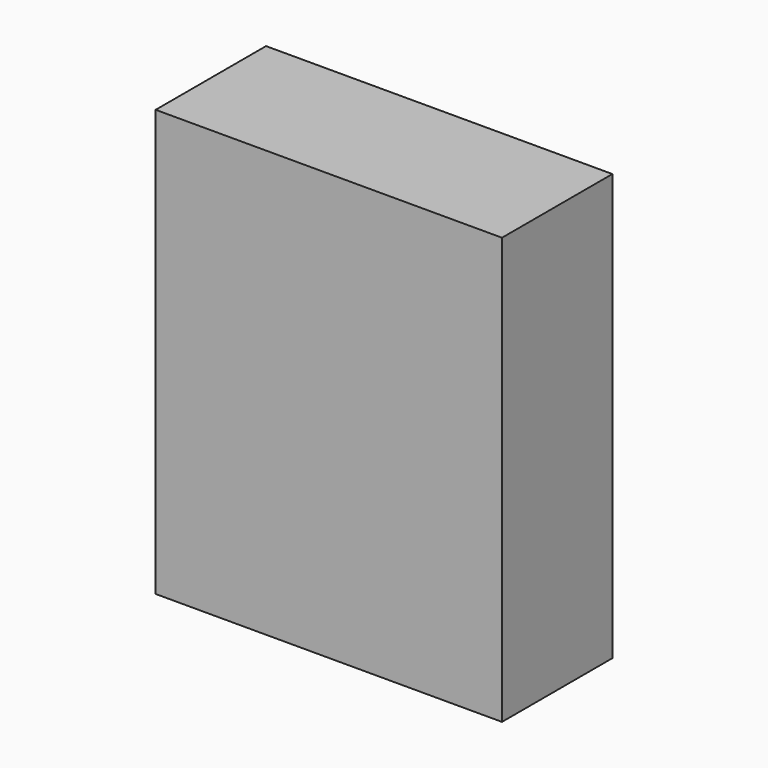
from build123d import *

# Parameters (mm, degrees)
F0_W     = 54.489925
F0_H     = 67.064002
F1_DEPTH = 21.705352


with BuildPart() as f1:
    # F0 (on Front) → F1 (new body)
    with BuildSketch(Plane.XZ):
        with Locations((-52.518453, 15.595667)):
            Rectangle(F0_W, F0_H)
        with Locations((-52.518453, 15.595667)):
            Rectangle(F0_W, F0_H)
    extrude(amount=-F1_DEPTH)


solid = f1.part
